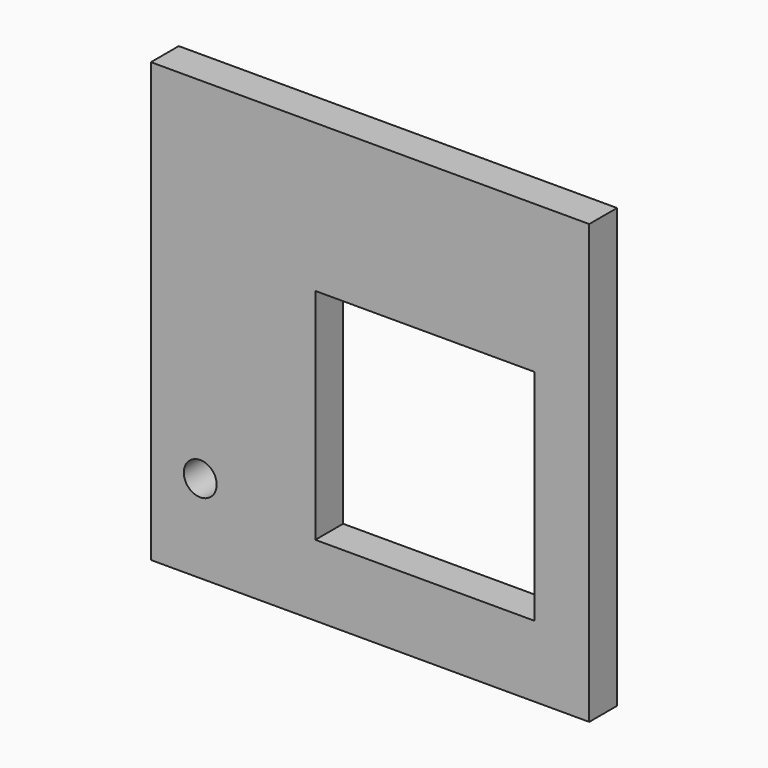
from build123d import *

# Parameters (mm, degrees)
F0_W     = 80
F0_H     = 80
F1_DEPTH = 6.35
F2_W     = 40
F2_H     = 40
F2_R     = 3
F3_DEPTH = 6.351


with BuildPart() as f1:
    # F0 (on Front) → F1 (new body)
    with BuildSketch(Plane.XZ):
        Rectangle(F0_W, F0_H)
    extrude(amount=F1_DEPTH)

    # F2 (on face) → F3 (cut, through all)
    with BuildSketch(Plane.XZ.offset(6.35)):
        with Locations((10, -7)):
            Rectangle(F2_W, F2_H)
        with Locations((-31, -24)):
            Circle(F2_R)
    extrude(amount=-F3_DEPTH, mode=Mode.SUBTRACT)


solid = f1.part
